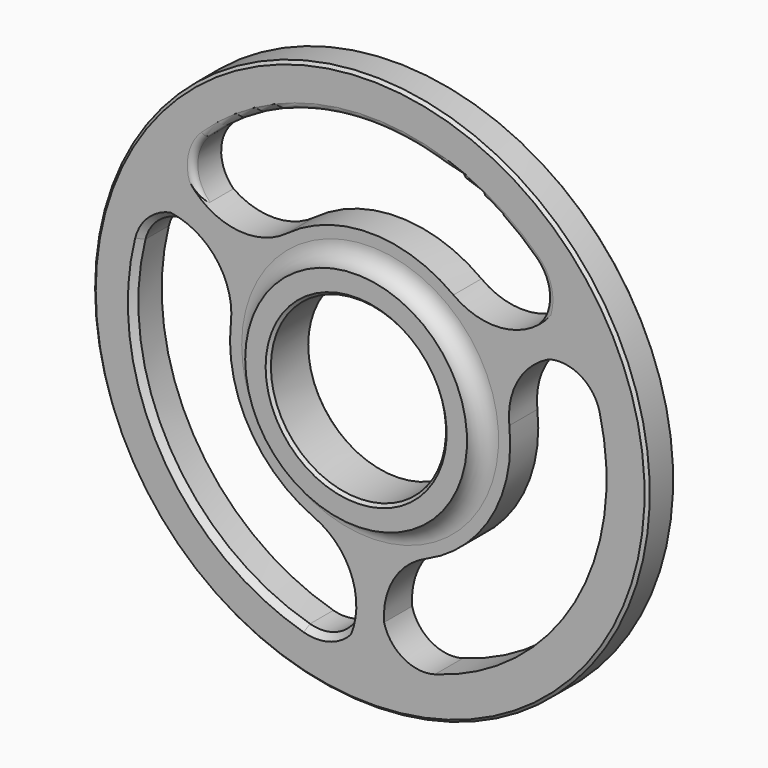
from build123d import *

# Parameters (mm, degrees)
CHAMFER_SIZE       = 0.5
CHAMFER001_SIZE    = 0.5
CHAMFER002_SIZE    = 0.5
CHAMFER003_SIZE    = 0.5
POCKET_DEPTH       = 275.303804
POLARPATTERN_COUNT = 3
CHAMFER004_SIZE    = 1
FILLET_R           = 1


with BuildPart() as part:
    # Sketch → Revolution (revolve)
    with BuildSketch(Plane.XY):
        with BuildLine():
            Line((-15, 9), (-47.5, 9))
            Line((-47.5, 9), (-47.5, 3))
            Line((-47.5, 3), (-22, 3))
            ThreePointArc((-19, 0), (-19.87868, 2.12132), (-22, 3))
            Line((-19, 0), (-15, 0))
            Line((-15, 0), (-15, 9))
        make_face()
    revolve(axis=Axis((0, 0, 0), (0, 1, 0)))

    # Chamfer
    chamfer_edges = [part.edges().sort_by_distance(p)[0] for p in [
        (47.5, 3, 0),
    ]]
    chamfer(chamfer_edges, length=CHAMFER_SIZE)

    # Chamfer001
    chamfer001_edges = [part.edges().sort_by_distance(p)[0] for p in [
        (47.5, 9, 0),
    ]]
    chamfer(chamfer001_edges, length=CHAMFER001_SIZE)

    # Chamfer002
    chamfer002_edges = [part.edges().sort_by_distance(p)[0] for p in [
        (15, 0, 0),
    ]]
    chamfer(chamfer002_edges, length=CHAMFER002_SIZE)

    # Chamfer003
    chamfer003_edges = [part.edges().sort_by_distance(p)[0] for p in [
        (15, 9, 0),
    ]]
    chamfer(chamfer003_edges, length=CHAMFER003_SIZE)

    # Sketch001 (on Face9 of Chamfer003) → Pocket (cut, through all)
    with BuildSketch(Plane.XZ.offset(-3)):
        with BuildLine():
            ThreePointArc((28.182522, 29.086001), (0, 40.5), (-28.182522, 29.086001))
            ThreePointArc((-28.182522, 29.086001), (-30.311454, 24.073232), (-28.203222, 19.051721))
            ThreePointArc((-28.203222, 19.051721), (-21.198816, 16.944507), (-14.272296, 19.295118))
            ThreePointArc((14.272296, 19.295118), (0, 24), (-14.272296, 19.295118))
            ThreePointArc((14.272296, 19.295118), (21.198816, 16.944507), (28.203222, 19.051721))
            ThreePointArc((28.203222, 19.051721), (30.311454, 24.073232), (28.182522, 29.086001))
        make_face()
    pocket = extrude(amount=-POCKET_DEPTH, mode=Mode.SUBTRACT)

    # PolarPattern: Pocket ×3 about axis
    polarpattern_axis = Axis((0, 3, 0), (0, -1, 0))
    for i in range(1, POLARPATTERN_COUNT):
        add(pocket.rotate(polarpattern_axis, i * 360 / POLARPATTERN_COUNT), mode=Mode.SUBTRACT)

    # Chamfer004
    chamfer004_edges = [part.edges().sort_by_distance(p)[0] for p in [
        (-35.074029, 3, -20.25),
    ]]
    chamfer(chamfer004_edges, length=CHAMFER004_SIZE)

    # Fillet
    fillet_edges = [part.edges().sort_by_distance(p)[0] for p in [
        (0, 3, 40.5),
    ]]
    fillet(fillet_edges, radius=FILLET_R)


solid = part.part
